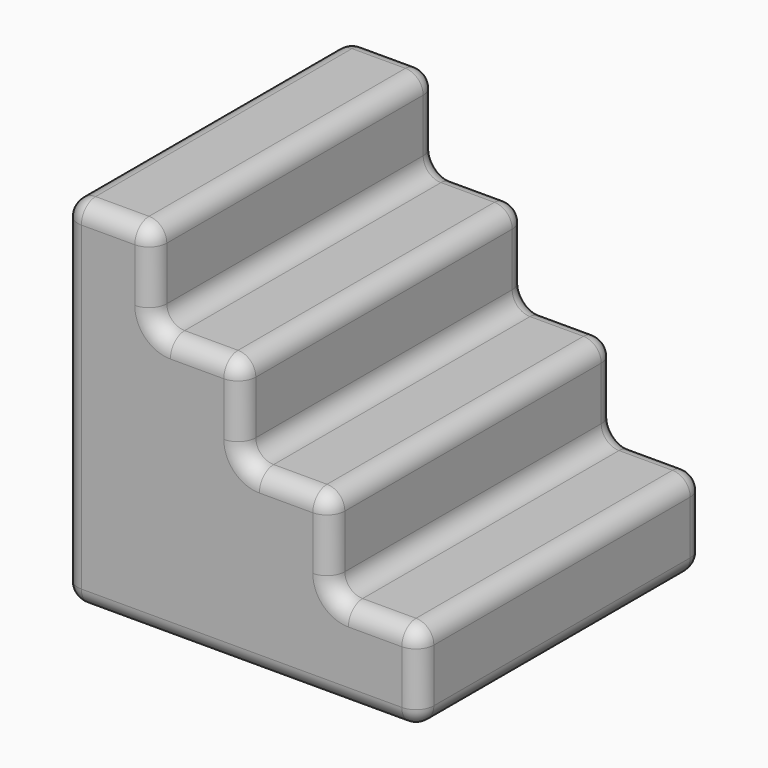
from build123d import *

# Parameters (mm, degrees)
F1_DEPTH = 100
F2_R     = 5


with BuildPart() as f1:
    # F0 (on Front) → F1 (new body)
    with BuildSketch(Plane.XZ):
        Polygon((0, 100), (0, 0), (100, 0), (100, 25), (75, 25), (75, 50), (50, 50), (50, 75), (25, 75), (25, 100), align=None)
    extrude(amount=F1_DEPTH)

    # F2
    f2_edges = [f1.edges().sort_by_distance(p)[0] for p in [
        (25, -50, 100),
        (25, -50, 75),
        (50, -50, 75),
        (50, -50, 50),
        (75, -50, 50),
        (75, -50, 25),
        (100, -50, 25),
        (100, -100, 12.5),
        (100, -50, 0),
        (100, 0, 12.5),
        (87.5, -100, 25),
        (75, -100, 37.5),
        (62.5, 0, 50),
        (62.5, -100, 50),
        (0, -100, 50),
        (50, -100, 0),
        (50, -100, 62.5),
        (37.5, -100, 75),
        (25, -100, 87.5),
        (12.5, -100, 100),
        (0, 0, 50),
        (50, 0, 0),
        (87.5, 0, 25),
        (75, 0, 37.5),
        (50, 0, 62.5),
        (37.5, 0, 75),
        (25, 0, 87.5),
        (12.5, 0, 100),
        (0, -50, 100),
        (0, -50, 0),
    ]]
    fillet(f2_edges, radius=F2_R)


solid = f1.part
